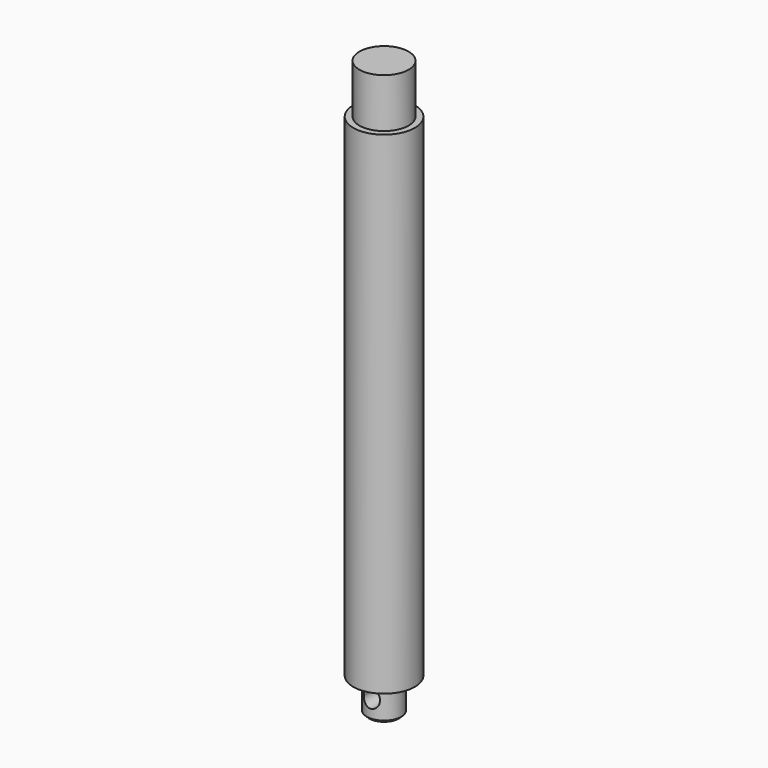
from build123d import *

# Parameters (mm, degrees)
F0_R     = 25
F1_DEPTH = 200
F2_R     = 20
F3_DEPTH = 40
F4_R     = 14
F5_DEPTH = 26.95
F7_DEPTH = 25
F8_SIZE  = 2


with BuildPart() as f1:
    # F0 (on Top) → F1 (new body, symmetric)
    with BuildSketch(Plane.XY):
        Circle(F0_R)
    extrude(amount=F1_DEPTH, both=True)

    # F2 (on face) → F3 (join)
    with BuildSketch(Plane.XY.offset(200)):
        Circle(F2_R)
    extrude(amount=F3_DEPTH)

    # F4 (on face) → F5 (join)
    with BuildSketch(Plane(origin=(0, 0, -200), x_dir=(1, 0, 0), z_dir=(0, 0, -1))):
        Circle(F4_R)
    extrude(amount=F5_DEPTH)

    # F6 (on Front) → F7 (cut, symmetric)
    with BuildSketch(Plane.XZ):
        with BuildLine():
            ThreePointArc((6.5, -209.5), (0, -203), (-6.5, -209.5))
            Line((-6.5, -209.5), (-6.5, -211.5))
            ThreePointArc((-6.5, -211.5), (0, -218), (6.5, -211.5))
            Line((6.5, -211.5), (6.5, -209.5))
        make_face()
    extrude(amount=F7_DEPTH, both=True, mode=Mode.SUBTRACT)

    # F8
    f8_edges = [f1.edges().sort_by_distance(p)[0] for p in [
        (-14, 0, -226.95),
    ]]
    chamfer(f8_edges, length=F8_SIZE)


solid = f1.part
